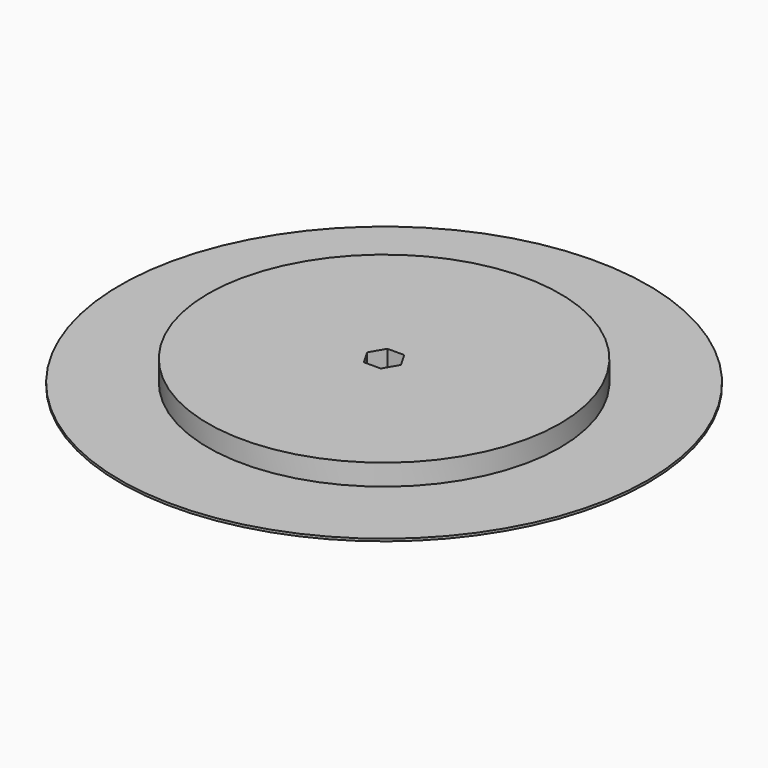
from build123d import *

# Parameters (mm, degrees)
F0_R     = 114.3
F2_DEPTH = 1.016
F1_R     = 76.2
F3_DEPTH = 10.16
F5_DEPTH = 25.4


with BuildPart() as f2:
    # F0 (on Top) → F2 (new body)
    with BuildSketch(Plane.XY):
        Circle(F0_R)
    extrude(amount=F2_DEPTH)

    # F1 (on Top) → F3 (join)
    with BuildSketch(Plane.XY):
        Circle(F1_R)
    extrude(amount=F3_DEPTH)

    # F4 (on Top) → F5 (cut)
    with BuildSketch(Plane.XY):
        Polygon((7.3323484187, 0), (3.6661742094, 6.35), (-3.6661742094, 6.35), (-7.3323484187, 0), (-3.6661742094, -6.35), (3.6661742094, -6.35), align=None)
    extrude(amount=F5_DEPTH, mode=Mode.SUBTRACT)


solid = f2.part
